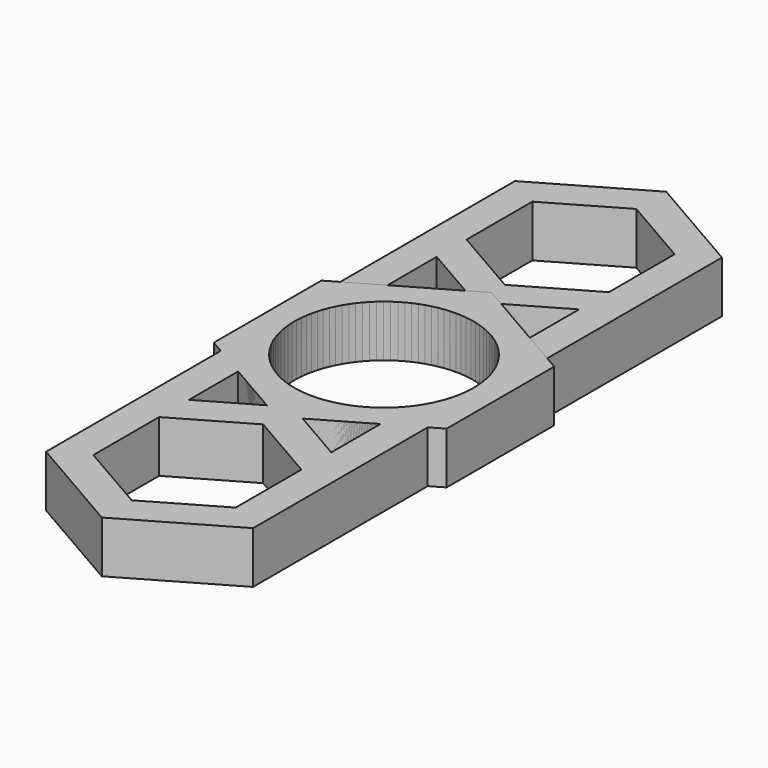
from build123d import *

# Parameters (mm, degrees)
F0_R     = 11.0236
F1_DEPTH = 6.35
F2_COUNT = 2


with BuildPart() as f1:
    # F0 (on Top) → F1 (new body)
    with BuildSketch(Plane.XY):
        Polygon((8.73125, 18.998773), (8.73125, 23.581491), (0, 18.540502), (-8.73125, 23.581491), (-8.73125, 18.998773), (-2.199705, 15.227784), (0, 16.497784), (2.199705, 15.227784), align=None)
        Polygon((12.7, 21.290132), (8.73125, 18.998773), (8.73125, 11.456794), (12.7, 9.165436), align=None)
        Polygon((0, 13.957784), (2.199705, 15.227784), (0, 16.497784), (-2.199705, 15.227784), align=None)
        Polygon((-8.73125, 11.456794), (-8.73125, 18.998773), (-12.7, 21.290132), (-12.7, 9.165436), align=None)
        Polygon((8.73125, 11.456794), (2.199705, 15.227784), (0, 13.957784), (-2.199705, 15.227784), (-8.73125, 11.456794), (-12.7, 9.165436), (-14.2875, 8.248892), (-14.2875, -8.248892), (0, -16.497784), (14.2875, -8.248892), (14.2875, 8.248892), (12.7, 9.165436), align=None)
        Circle(F0_R, mode=Mode.SUBTRACT)
        Polygon((0, 38.70446), (8.73125, 33.66347), (8.73125, 23.581491), (8.73125, 18.998773), (12.7, 21.290132), (12.7, 35.954829), (0, 43.287178), (-12.7, 35.954829), (-12.7, 21.290132), (-8.73125, 18.998773), (-8.73125, 23.581491), (-8.73125, 33.66347), align=None)
    extrude(amount=F1_DEPTH)


with BuildPart() as f2_1:
    # F2: instance of F1
    add(f1.part.rotate(Axis((0, 0, 6.35), (0, 0, 1)), 1 * 360 / F2_COUNT))


solid = Compound([f1.part, f2_1.part])
